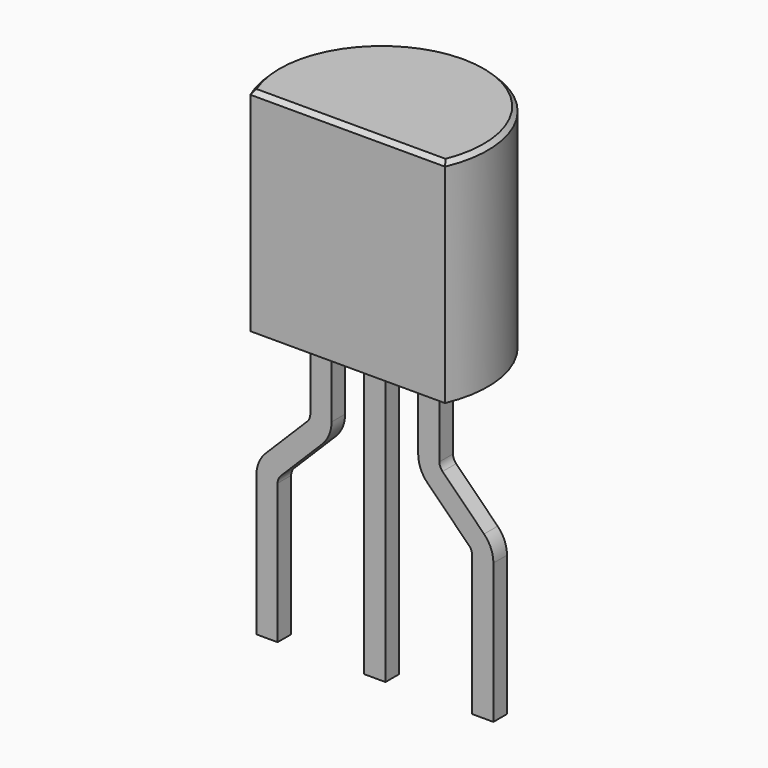
from build123d import *

# Parameters (mm, degrees)
F1_DEPTH = 5
F2_SIZE  = 0.1
F3_W     = 0.5
F3_H     = 0.4


with BuildPart() as f1:
    # F0 (on Top) → F1 (new body)
    with BuildSketch(Plane.XY):
        with BuildLine():
            Line((-2.291288, -1), (2.291288, -1))
            ThreePointArc((2.291288, -1), (0, 2.5), (-2.291288, -1))
        make_face()
    extrude(amount=F1_DEPTH)

    # F2
    f2_edges = [f1.edges().sort_by_distance(p)[0] for p in [
        (0, -1, 5),
        (0, 2.5, 5),
    ]]
    chamfer(f2_edges, length=F2_SIZE)

    # F5: sweep along a path in F4
    with BuildLine(Plane.XZ) as f5_path:
        Line((-1.27, 0), (-1.27, -1.792893))
        ThreePointArc((-1.27, -1.792893), (-1.30806, -1.984235), (-1.416447, -2.146447))
        Line((-1.416447, -2.146447), (-2.393553, -3.123553))
        ThreePointArc((-2.393553, -3.123553), (-2.50194, -3.285765), (-2.54, -3.477107))
        Line((-2.54, -3.477107), (-2.54, -6.77))
    # F3 (on face) → F5 (sweep)
    with BuildSketch(Plane(origin=(0, 0, 0), x_dir=(1, 0, 0), z_dir=(0, 0, -1))):
        with Locations((-1.27, 0)):
            Rectangle(F3_W, F3_H)
    sweep(path=f5_path.line)

    # F6: sweep along a path in F4
    with BuildLine(Plane.XZ) as f6_path:
        Line((0, 0), (0, -6.77))
    # F3 (on face) → F6 (sweep)
    with BuildSketch(Plane(origin=(0, 0, 0), x_dir=(1, 0, 0), z_dir=(0, 0, -1))):
        Rectangle(F3_W, F3_H)
    sweep(path=f6_path.line)

    # F7: sweep along a path in F4
    with BuildLine(Plane.XZ) as f7_path:
        Line((1.27, 0), (1.27, -1.792893))
        ThreePointArc((1.27, -1.792893), (1.30806, -1.984235), (1.416447, -2.146447))
        Line((1.416447, -2.146447), (2.393553, -3.123553))
        ThreePointArc((2.393553, -3.123553), (2.50194, -3.285765), (2.54, -3.477107))
        Line((2.54, -3.477107), (2.54, -6.77))
    # F3 (on face) → F7 (sweep)
    with BuildSketch(Plane(origin=(0, 0, 0), x_dir=(1, 0, 0), z_dir=(0, 0, -1))):
        with Locations((1.27, 0)):
            Rectangle(F3_W, F3_H)
    sweep(path=f7_path.line)


solid = f1.part
